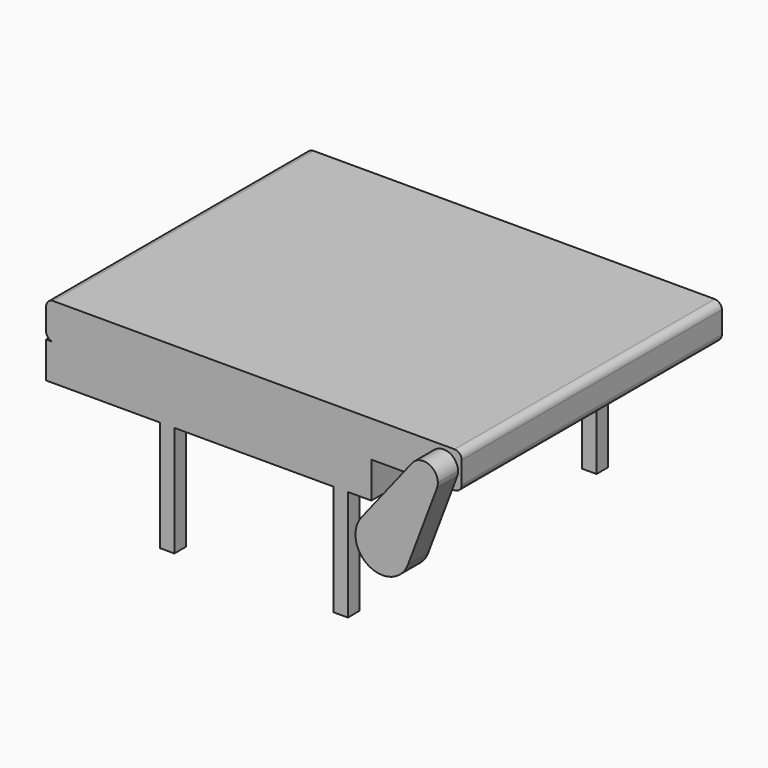
from build123d import *

# Parameters (mm, degrees)
F1_DEPTH = 900
F2_W     = 900
F2_H     = 100
F3_DEPTH = 900
F5_DEPTH = 70
F7_W     = 40
F7_H     = 40
F8_DEPTH = 306


with BuildPart() as f1:
    # F0 (on Front) → F1 (new body)
    with BuildSketch(Plane.XZ):
        with BuildLine():
            ThreePointArc((0, 20), (5.8578643763, 5.8578643763), (20, 0))
            Line((20, 0), (1130, 0))
            ThreePointArc((1130, 0), (1144.1421356237, 5.8578643763), (1150, 20))
            Line((1150, 20), (1150, 80))
            ThreePointArc((1150, 80), (1144.1421356237, 94.1421356237), (1130, 100))
            Line((1130, 100), (20, 100))
            ThreePointArc((20, 100), (5.8578643763, 94.1421356237), (0, 80))
            Line((0, 80), (0, 20))
        make_face()
    extrude(amount=-F1_DEPTH)

    # F2 (on Front) → F3 (join, through all)
    with BuildSketch(Plane.XZ):
        with Locations((450, -50)):
            Rectangle(F2_W, F2_H)
    extrude(amount=-F3_DEPTH)

    # F4 (on face) → F5 (join)
    with BuildSketch(Plane.XZ):
        with BuildLine():
            ThreePointArc((1137.4171255462, 35.8593240664), (1139.3489836073, 42.8126855449), (1140, 50))
            ThreePointArc((1140, 50), (1113.0987167635, 87.7944919155), (1068.5788190425, 74.752967241))
            ThreePointArc((1068.5788190425, 74.752967241), (1080.3234477683, 15.1742438377), (1137.4171255462, 35.8593240664))
        make_face()
        with BuildLine():
            ThreePointArc((1137.4171255462, 35.8593240664), (1080.3234477683, 15.1742438377), (1068.5788190425, 74.752967241))
            Line((1068.5788190425, 74.752967241), (928.0852857046, -103.5881864231))
            ThreePointArc((928.0852857046, -103.5881864231), (1011.5600939315, -79.1353276584), (1062, -150))
            ThreePointArc((1062, -150), (1060.7793442636, -163.4762146032), (1057.1571103991, -176.5137673755))
            Line((1057.1571103991, -176.5137673755), (1137.4171255462, 35.8593240664))
        make_face()
        with BuildLine():
            ThreePointArc((1062, -150), (1011.5600939315, -79.1353276584), (928.0852857046, -103.5881864231))
            ThreePointArc((928.0852857046, -103.5881864231), (950.1064645656, -215.2982928043), (1057.1571103991, -176.5137673755))
            ThreePointArc((1057.1571103991, -176.5137673755), (1060.7793442636, -163.4762146032), (1062, -150))
        make_face()
    extrude(amount=F5_DEPTH)

    # F7 (on offset) → F8 (join, through all)
    with BuildSketch(Plane(origin=(0, 0, -406), x_dir=(1, 0, 0), z_dir=(0, 0, -1))):
        with Locations((335, -20.0000000002)):
            Rectangle(F7_W, F7_H)
        with Locations((335, -880.0000000002)):
            Rectangle(F7_W, F7_H)
        with Locations((815, -20.0000000002)):
            Rectangle(F7_W, F7_H)
        with Locations((815, -880.0000000002)):
            Rectangle(F7_W, F7_H)
    extrude(amount=-F8_DEPTH)


solid = f1.part
